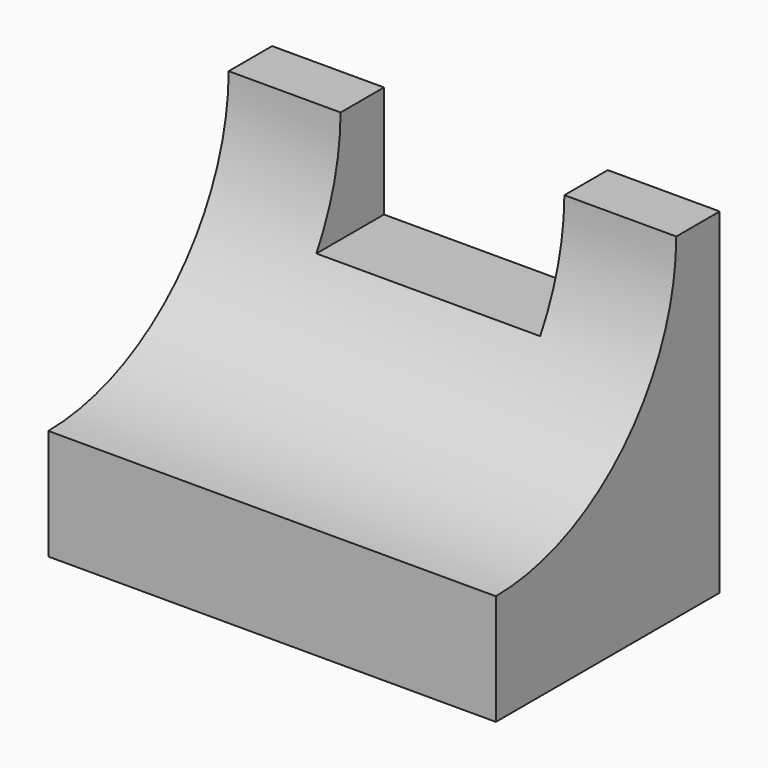
from build123d import *

# Parameters (mm, degrees)
F0_W     = 101.6
F0_H     = 63.5
F1_DEPTH = 25.4
F2_DEPTH = 50.8
F4_R     = 51.3264150983
F5_DEPTH = 117.602
F6_W     = 50.8
F6_H     = 12.3184835084
F7_DEPTH = 25.4
F8_DEPTH = 25.4


with BuildPart() as f1:
    # F0 (on Top) → F1 (new body)
    with BuildSketch(Plane.XY):
        with Locations((47.4951000333, -21.5426209271)):
            Rectangle(F0_W, F0_H)
    extrude(amount=F1_DEPTH)

    # F2 (add): a face of the model
    f2_faces = [f1.faces().sort_by_distance(p)[0] for p in [
        (47.4951000333, -21.5426209271, 25.4),
    ]]
    extrude(f2_faces, amount=F2_DEPTH)

    # F4 (on face) → F5 (cut)
    with BuildSketch(Plane.YZ.offset(98.2951000333)):
        with Locations((-53.4369722009, 76.4370337129)):
            Circle(F4_R)
    extrude(amount=-F5_DEPTH, mode=Mode.SUBTRACT)

    # F6 (on face) → F7 (cut)
    with BuildSketch(Plane.XY.offset(76.2)):
        with Locations((47.4951000333, 4.0481373187)):
            Rectangle(F6_W, F6_H)
    extrude(amount=-F7_DEPTH, mode=Mode.SUBTRACT)

    # F8 (cut): a face of the model
    f8_faces = [f1.faces().sort_by_distance(p)[0] for p in [
        (47.4951000333, -2.1111044355, 63.5),
    ]]
    extrude(f8_faces, amount=-F8_DEPTH, mode=Mode.SUBTRACT)


solid = f1.part
